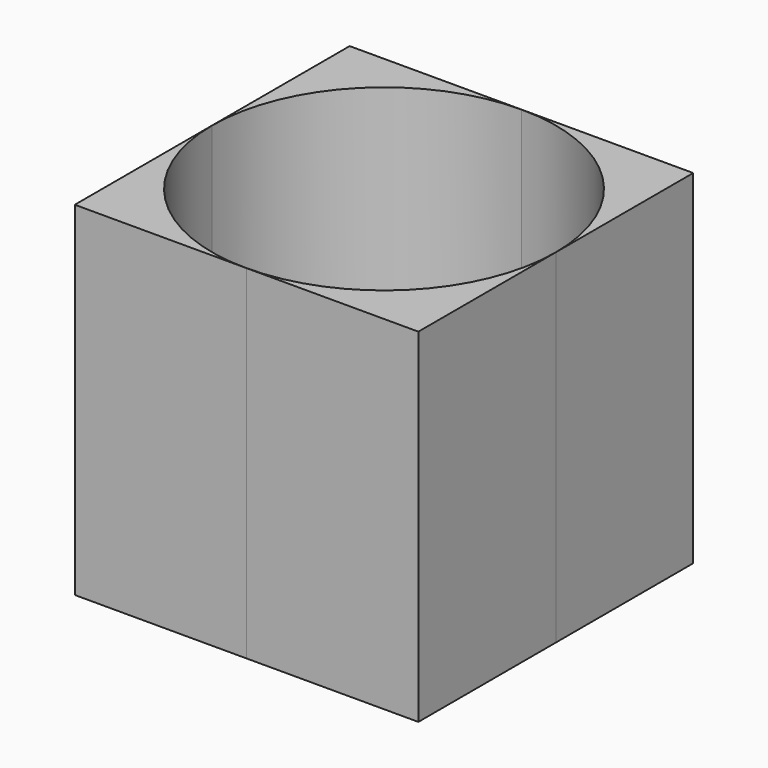
from build123d import *

# Parameters (mm, degrees)
SKETCH001_R      = 0.5
EXTRUDE001_DEPTH = 1
SKETCH_W         = 1
SKETCH_H         = 1
EXTRUDE_DEPTH    = 1


with BuildPart() as extrude001:
    # Sketch001 → Extrude001 (new body)
    with BuildSketch(Plane.XY):
        Circle(SKETCH001_R)
    extrude(amount=-EXTRUDE001_DEPTH)


with BuildPart() as square_with_hole:
    # Sketch → Extrude (new body)
    with BuildSketch(Plane.XY):
        Rectangle(SKETCH_W, SKETCH_H)
    extrude(amount=-EXTRUDE_DEPTH)

    # Cut: cut Extrude001
    add(extrude001.part, mode=Mode.SUBTRACT)


solid = square_with_hole.part
